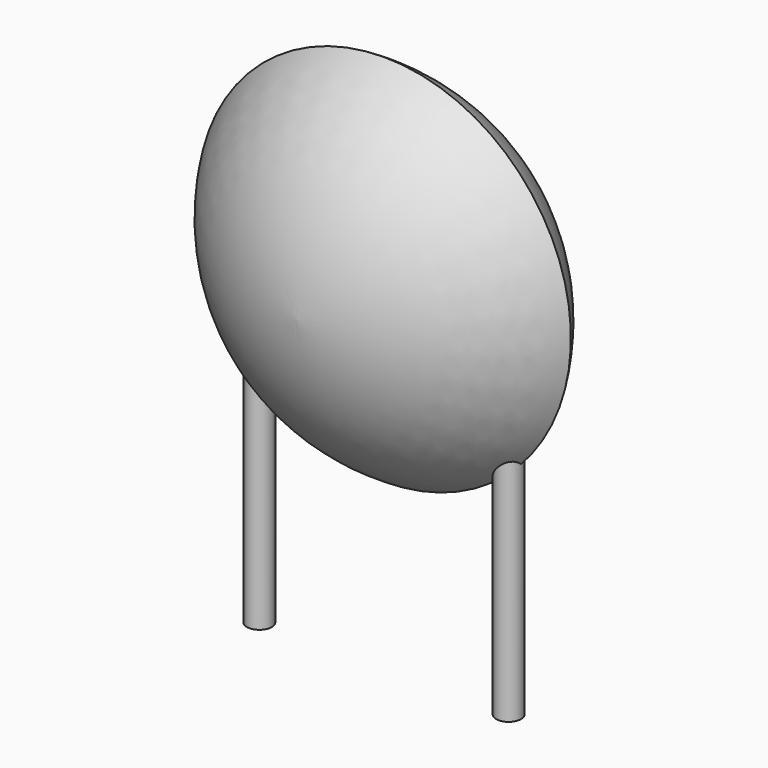
from build123d import *

# Parameters (mm, degrees)
SKETCH001_R       = 0.25
PAD001_DEPTH      = 1.5
PAD001_DEPTH_BACK = 3.2
SKETCH002_R       = 0.25
SKETCH003_R       = 0.25
SKETCH004_R       = 0.25
SKETCH005_R       = 0.25


with BuildPart() as pad001:
    # Sketch001 → Pad001 (new body, two sides)
    with BuildSketch(Plane.XY) as pad001_sk:
        Circle(SKETCH001_R)
        with Locations((5, 0)):
            Circle(SKETCH001_R)
    extrude(amount=PAD001_DEPTH)
    extrude(pad001_sk.sketch, amount=-PAD001_DEPTH_BACK)


with BuildPart() as revolution:
    # Sketch → Revolution (revolve)
    with BuildSketch(Plane.YZ.offset(2.5)):
        with BuildLine():
            Line((-2.2, 3.85), (2.2, 3.85))
            ThreePointArc((0, 0.1), (1.576385, 1.695521), (2.2, 3.85))
            ThreePointArc((-2.2, 3.85), (-1.576385, 1.695521), (0, 0.1))
        make_face()
    revolve(axis=Axis((2.5, -3.32079, 3.85), (0, 1, 0)))


with BuildPart() as loft_body:
    # Sketch002 → Loft section 0
    with BuildSketch(Plane.XY.offset(3.75)):
        with Locations((-0.5, 0)):
            Circle(SKETCH002_R)
    # Sketch003 → Loft section 1
    with BuildSketch(Plane.XY.offset(1.5)):
        Circle(SKETCH003_R)
    loft()


with BuildPart() as loft001:
    # Sketch004 → Loft001 section 0
    with BuildSketch(Plane.XY.offset(1.5)):
        with Locations((5, 0)):
            Circle(SKETCH004_R)
    # Sketch005 → Loft001 section 1
    with BuildSketch(Plane.XY.offset(3.75)):
        with Locations((5.5, 0)):
            Circle(SKETCH005_R)
    loft()


solid = Compound([pad001.part, revolution.part, loft_body.part, loft001.part])
